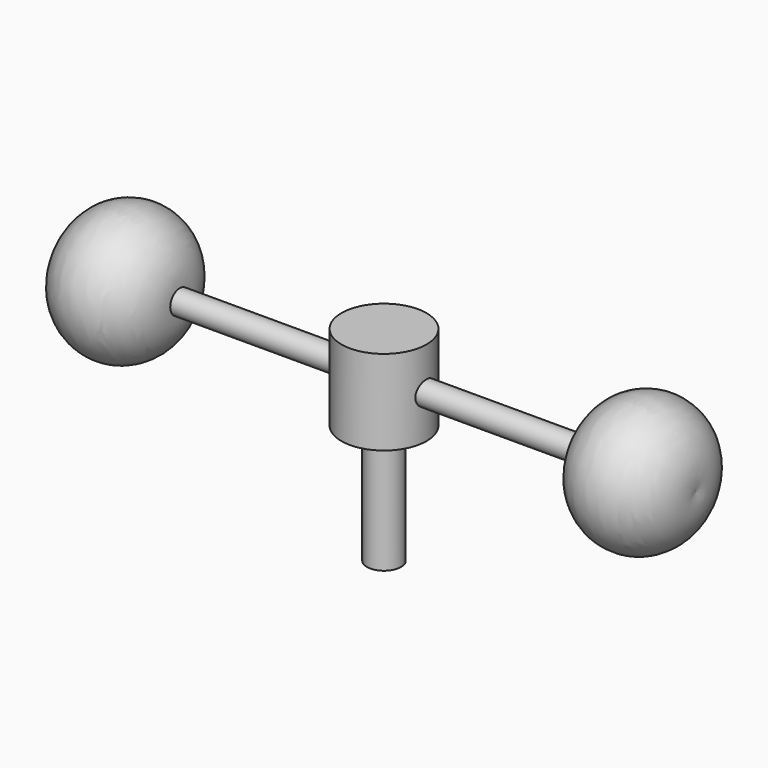
from build123d import *

# Parameters (mm, degrees)
F0_R      = 15.875
F1_DEPTH  = 31.75
F3_R      = 6.35
F4_DEPTH  = 44.45
F6_R      = 4.445
F7_DEPTH  = 76.2
F9_R      = 4.445
F10_DEPTH = 76.2


with BuildPart() as f1:
    # F0 (on Top) → F1 (new body)
    with BuildSketch(Plane.XY):
        Circle(F0_R)
    extrude(amount=-F1_DEPTH)

    # F3 (on offset) → F4 (join)
    with BuildSketch(Plane.XY.offset(-76.2)):
        Circle(F3_R)
    extrude(amount=F4_DEPTH)

    # F6 (on offset) → F7 (join)
    with BuildSketch(Plane.YZ.offset(76.2)):
        with Locations((0, -15.875)):
            Circle(F6_R)
    extrude(amount=-F7_DEPTH)

    # F9 (on offset) → F10 (join)
    with BuildSketch(Plane.YZ.offset(-76.2)):
        with Locations((0, -15.875)):
            Circle(F9_R)
    extrude(amount=F10_DEPTH)

    # F11 (on Front) → F12 (revolve)
    with BuildSketch(Plane.XZ):
        with BuildLine():
            Line((-116.347869, -15.875), (-76.2, -15.875))
            Line((-76.2, -15.875), (-76.2, -11.43))
            ThreePointArc((-76.2, -11.43), (-98.75608, 8.766592), (-116.347869, -15.875))
        make_face()
    revolve(axis=Axis((-68.523894, 0, -15.875), (-1, 0, 0)))

    # F11 (on Front) → F13 (revolve)
    with BuildSketch(Plane.XZ):
        with BuildLine():
            Line((76.2, -11.43), (76.2, -15.875))
            Line((76.2, -15.875), (116.347869, -15.875))
            ThreePointArc((116.347869, -15.875), (98.75608, 8.766592), (76.2, -11.43))
        make_face()
    revolve(axis=Axis((-68.523894, 0, -15.875), (-1, 0, 0)))


solid = f1.part
